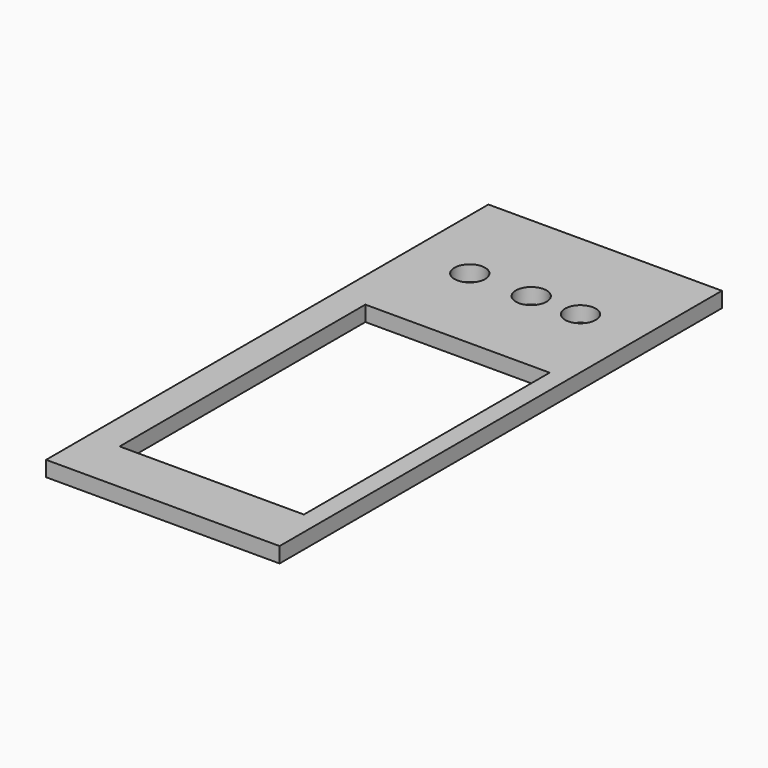
from build123d import *

# Parameters (mm, degrees)
F0_W     = 193.10223
F0_H     = 457.2
F0_W_2   = 152.4
F0_H_2   = 254
F0_R     = 12.7
F1_DEPTH = 12.7


with BuildPart() as f1:
    # F0 (on Top) → F1 (new body)
    with BuildSketch(Plane.XY):
        with Locations((96.551115, 228.6)):
            Rectangle(F0_W, F0_H)
        with Locations((101.6, 171.26083)):
            Rectangle(F0_W_2, F0_H_2, mode=Mode.SUBTRACT)
        with Locations((50.8, 374.46083)):
            Circle(F0_R, mode=Mode.SUBTRACT)
        with Locations((101.6, 374.46083)):
            Circle(F0_R, mode=Mode.SUBTRACT)
        with Locations((142.30223, 374.46083)):
            Circle(F0_R, mode=Mode.SUBTRACT)
    extrude(amount=F1_DEPTH)


solid = f1.part
